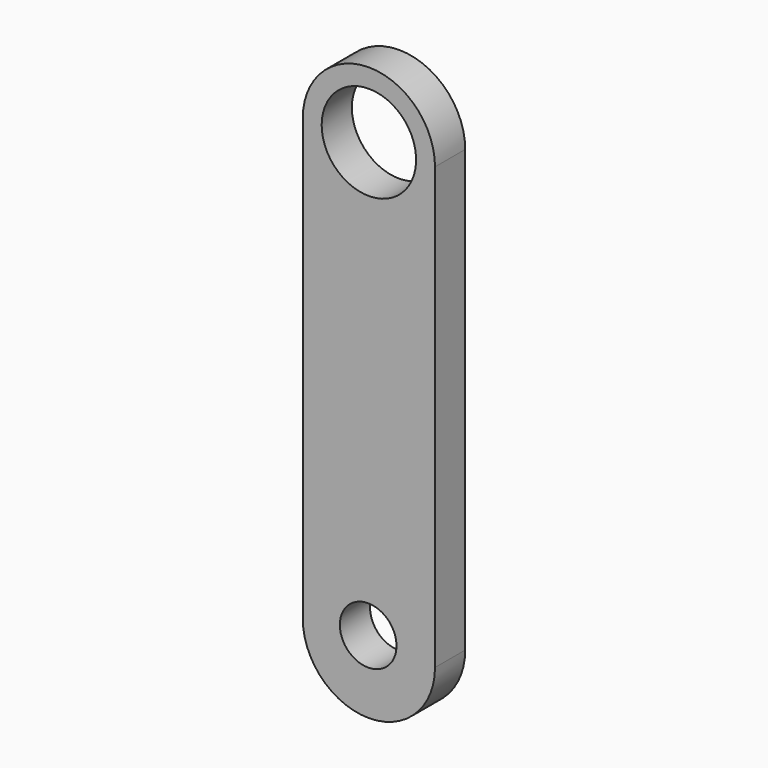
from build123d import *

# Parameters (mm, degrees)
F1_DEPTH = 5.08
F3_D     = 7.62
F5_D     = 12.7


with BuildPart() as f1:
    # F0 (on Front) → F1 (new body)
    with BuildSketch(Plane.XZ):
        with BuildLine():
            ThreePointArc((-40.938293, 58.391372), (-49.828293, 67.281372), (-58.718293, 58.391372))
            Line((-58.718293, 58.391372), (-58.718293, -0.875289))
            ThreePointArc((-58.718293, -0.875289), (-49.828293, -9.765289), (-40.938293, -0.875289))
            Line((-40.938293, -0.875289), (-40.938293, 58.391372))
        make_face()
    extrude(amount=F1_DEPTH)

    # F3 (through all)
    with Locations(Plane(origin=(0, 0, 0), x_dir=(1, 0, 0), z_dir=(0, 1, 0))):
        with Locations((-49.923204, 0)):
            Hole(F3_D / 2)

    # F5 (through all)
    with Locations(Plane.XZ.offset(5.08)):
        with Locations((-49.828293, 58.391372)):
            Hole(F5_D / 2)


solid = f1.part
